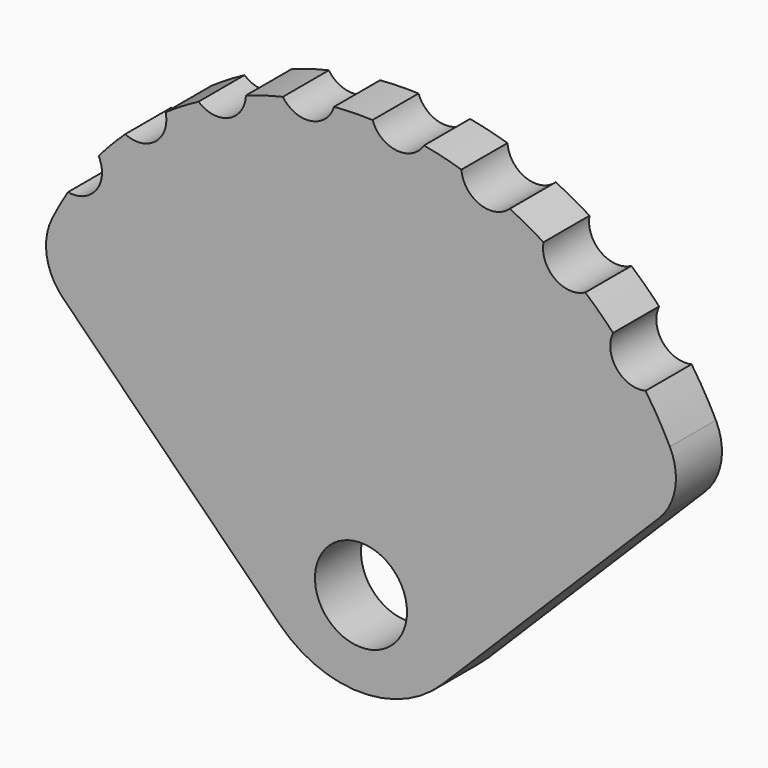
from build123d import *

# Parameters (mm, degrees)
F0_R     = 5.08
F1_DEPTH = 6.35
F2_R     = 3.175
F3_DEPTH = 25.4


with BuildPart() as f1:
    # F0 (on Front) → F1 (new body)
    with BuildSketch(Plane.XZ):
        with BuildLine():
            Line((-32.902092, -5.197908), (-8.980256, -29.119744))
            ThreePointArc((-8.980256, -29.119744), (0, -32.839488), (8.980256, -29.119744))
            Line((8.980256, -29.119744), (32.902092, -5.197908))
            ThreePointArc((32.902092, -5.197908), (34.67947, -1.728008), (34.094357, 2.126459))
            ThreePointArc((34.094357, 2.126459), (0, 23.221024), (-34.094357, 2.126459))
            ThreePointArc((-34.094357, 2.126459), (-34.67947, -1.728008), (-32.902092, -5.197908))
        make_face()
        with Locations((0, -23.374978)):
            Circle(F0_R, mode=Mode.SUBTRACT)
    extrude(amount=F1_DEPTH)

    # F2 (on face) → F3 (cut)
    with BuildSketch(Plane.XZ.offset(6.35)):
        with Locations((-31.760779, 8.385801)):
            Circle(F2_R)
        with Locations((-24.65719, 15.813367)):
            Circle(F2_R)
        with Locations((-15.873253, 21.149301)):
            Circle(F2_R)
        with Locations((-6.007581, 24.029968)):
            Circle(F2_R)
        with Locations((4.267498, 24.259054)):
            Circle(F2_R)
        with Locations((14.251754, 21.820948)):
            Circle(F2_R)
        with Locations((23.264776, 16.881804)):
            Circle(F2_R)
        with Locations((30.692343, 9.778214)):
            Circle(F2_R)
    extrude(amount=-F3_DEPTH, mode=Mode.SUBTRACT)


solid = f1.part
